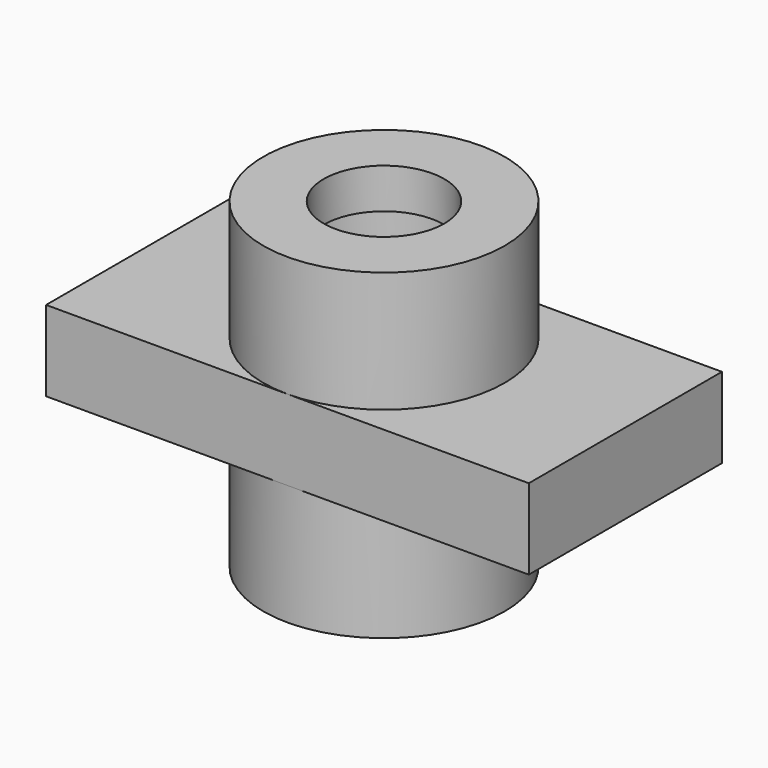
from build123d import *

# Parameters (mm, degrees)
F1_DEPTH = 6.35
F2_DEPTH = 25.4
F3_R     = 9.525
F4_DEPTH = 50.801
F5_START = -6.35
F3_R_2   = 12.7
F5_DEPTH = 6.35


with BuildPart() as f1:
    # F0 (on Top) → F1 (new body, symmetric)
    with BuildSketch(Plane.XY):
        with BuildLine():
            ThreePointArc((3.68e-08, -19.05), (-19.05, 0), (3.68e-08, 19.05))
            Line((3.68e-08, 19.05), (-38.1, 19.05))
            Line((-38.1, 19.05), (-38.1, -19.05))
            Line((-38.1, -19.05), (3.68e-08, -19.05))
        make_face()
    extrude(amount=F1_DEPTH, both=True)



with BuildPart() as f1b:
    # F0 (on Top) → F1, piece 2 (new body, symmetric)
    with BuildSketch(Plane.XY):
        with BuildLine():
            Line((38.1, -19.05), (38.1, 19.05))
            Line((38.1, 19.05), (3.68e-08, 19.05))
            ThreePointArc((3.68e-08, 19.05), (13.4703841946, 13.4703841686), (19.05, 0))
            ThreePointArc((19.05, 0), (13.4703841946, -13.4703841686), (3.68e-08, -19.05))
            Line((3.68e-08, -19.05), (38.1, -19.05))
        make_face()
    extrude(amount=F1_DEPTH, both=True)


with BuildPart() as f1_1:
    add(f1.part)

    add(f1b.part)  # F2 merges F1b
    # F0 (on Top) → F2 (join, symmetric)
    with BuildSketch(Plane.XY):
        with BuildLine():
            ThreePointArc((19.05, 0), (13.4703841946, 13.4703841686), (3.68e-08, 19.05))
            ThreePointArc((3.68e-08, 19.05), (-19.05, 0), (3.68e-08, -19.05))
            ThreePointArc((3.68e-08, -19.05), (13.4703841946, -13.4703841686), (19.05, 0))
        make_face()
    extrude(amount=F2_DEPTH, both=True)

    # F3 (on face) → F4 (cut, through all)
    with BuildSketch(Plane.XY.offset(25.4)):
        Circle(F3_R)
    extrude(amount=-F4_DEPTH, mode=Mode.SUBTRACT)

    # F3 (on face) → F5 (cut)
    with BuildSketch(Plane.XY.offset(25.4).offset(F5_START)):
        Circle(F3_R_2)
        Circle(F3_R, mode=Mode.SUBTRACT)
    extrude(amount=-F5_DEPTH, mode=Mode.SUBTRACT)


solid = f1_1.part
